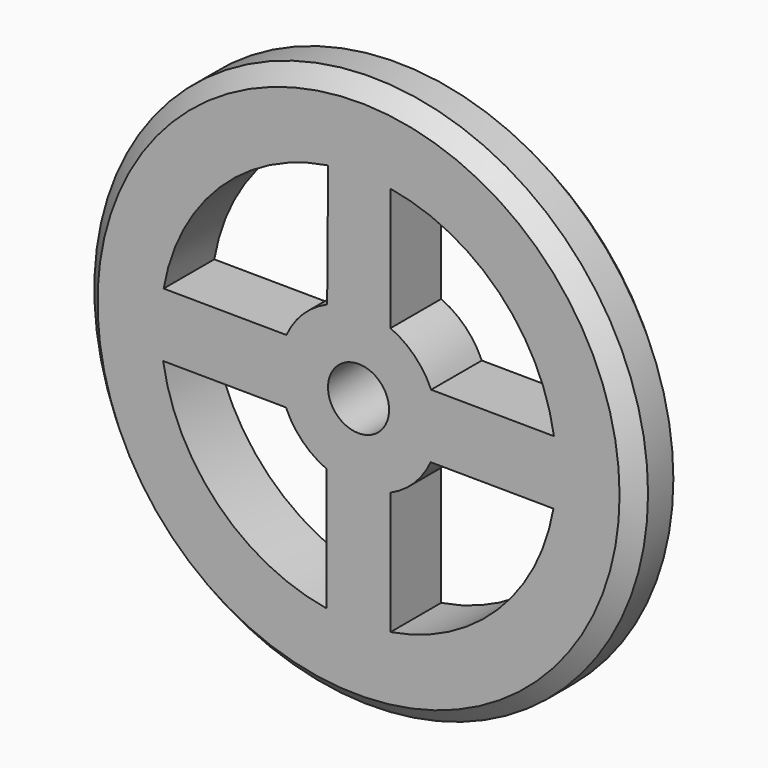
from build123d import *

# Parameters (mm, degrees)
F0_R     = 3.5
F0_R_2   = 2.5
F1_DEPTH = 0.8
F2_SIZE  = 0.2
F4_DEPTH = 0.8
F6_R     = 0.386
F7_DEPTH = 25


with BuildPart() as f1:
    # F0 (on Front) → F1 (new body)
    with BuildSketch(Plane.XZ):
        Circle(F0_R)
        Circle(F0_R_2, mode=Mode.SUBTRACT)
    extrude(amount=F1_DEPTH)

    # F2
    f2_edges = [f1.edges().sort_by_distance(p)[0] for p in [
        (3.5, -0.4, 0),
        (-3.5, 0, 0),
        (-3.5, -0.8, 0),
    ]]
    chamfer(f2_edges, length=F2_SIZE)

    # F3 (on Front) → F4 (join)
    with BuildSketch(Plane.XZ):
        with BuildLine():
            Line((0.4040931107, -2.4671256064), (0.4040931107, -0.914717857))
            ThreePointArc((0.4040931107, -0.914717857), (0.7043653121, -0.7098376625), (0.9115631819, -0.411160024))
            Line((0.9115631819, -0.411160024), (2.463924442, -0.4231741297))
            ThreePointArc((2.463924442, -0.4231741297), (2.4909647835, -0.2123545325), (2.5, 0))
            ThreePointArc((2.5, 0), (2.4925336023, 0.1930705612), (2.4701790067, 0.3849878892))
            Line((2.4701790067, 0.3849878892), (0.9178177466, 0.3970019949))
            ThreePointArc((0.9178177466, 0.3970019949), (0.7098376625, 0.7043653121), (0.4040931107, 0.914717857))
            Line((0.4040931107, 0.914717857), (0.4040931107, 2.4671256064))
            ThreePointArc((0.4040931107, 2.4671256064), (0.0096738403, 2.4999812833), (-0.3849878892, 2.4701790067))
            Line((-0.3849878892, 2.4701790067), (-0.3970019949, 0.9178177466))
            ThreePointArc((-0.3970019949, 0.9178177466), (-0.7016132963, 0.7125579152), (-0.9115631819, 0.411160024))
            Line((-0.9115631819, 0.411160024), (-2.463924442, 0.4231741297))
            ThreePointArc((-2.463924442, 0.4231741297), (-2.4999251335, 0.0193475357), (-2.4701790067, -0.3849878892))
            Line((-2.4701790067, -0.3849878892), (-0.9178177466, -0.3970019949))
            ThreePointArc((-0.9178177466, -0.3970019949), (-0.7098376625, -0.7043653121), (-0.4040931107, -0.914717857))
            Line((-0.4040931107, -0.914717857), (-0.4040931107, -2.4671256064))
            ThreePointArc((-0.4040931107, -2.4671256064), (0, -2.5), (0.4040931107, -2.4671256064))
        make_face()
    extrude(amount=F4_DEPTH)

    # F6 (on face) → F7 (cut)
    with BuildSketch(Plane.XZ.offset(0.8)):
        Circle(F6_R)
    extrude(amount=-F7_DEPTH, mode=Mode.SUBTRACT)


solid = f1.part
